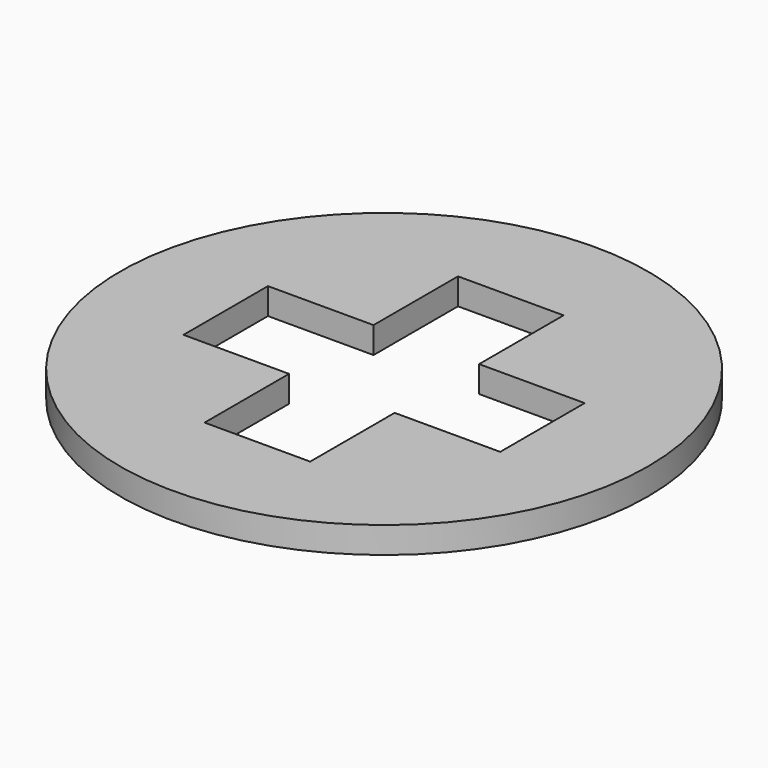
from build123d import *

# Parameters (mm, degrees)
F0_R     = 50
F1_DEPTH = 5


with BuildPart() as f1:
    # F0 (on Top) → F1 (new body)
    with BuildSketch(Plane.XY):
        Circle(F0_R)
        Polygon((-10, 30), (0, 30), (10, 30), (10, 10), (30, 10), (30, 0), (30, -10), (10, -10), (10, -30), (0, -30), (-10, -30), (-10, -10), (-30, -10), (-30, 0), (-30, 10), (-10, 10), align=None, mode=Mode.SUBTRACT)
    extrude(amount=F1_DEPTH)


solid = f1.part
